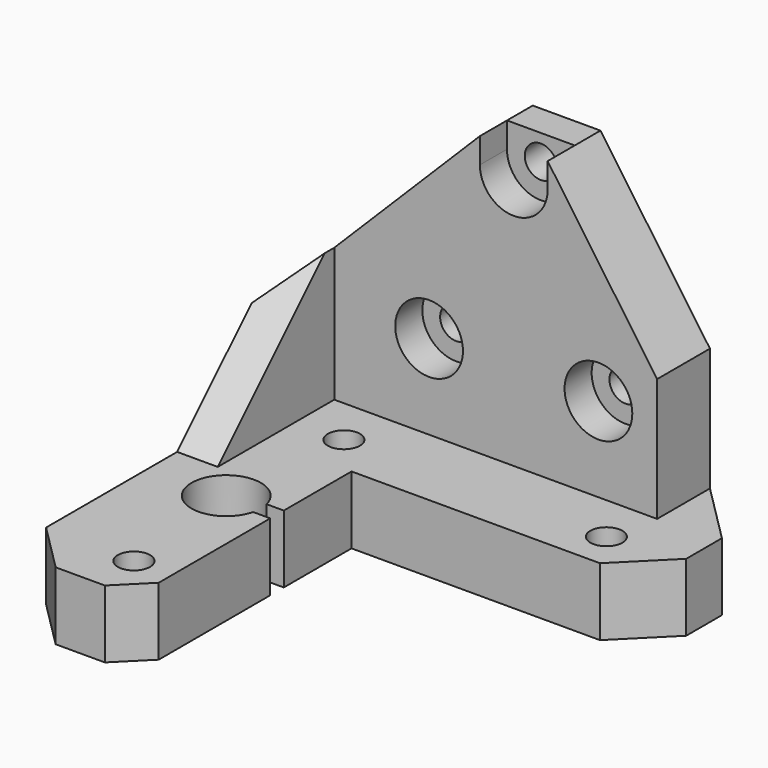
from build123d import *

# Parameters (mm, degrees)
SKETCH_R        = 1.9
SKETCH_R_2      = 4.1
PAD_DEPTH       = 8
PAD001_DEPTH    = 33
SKETCH002_R     = 1.9
POCKET_DEPTH    = 7.801
POCKET001_DEPTH = 5
POCKET002_DEPTH = 50.001
CHAMFER_SIZE    = 3
SKETCH005_R     = 4
POCKET003_DEPTH = 4
SKETCH006_W     = 2.5
SKETCH006_H     = 2
POCKET004_DEPTH = 8.001


with BuildPart() as part:
    # Sketch → Pad (new body)
    with BuildSketch(Plane.XY.offset(10)):
        Polygon((0, 50), (0, 5.656854), (5.656854, 0), (11.464466, 0), (15, 3.535534), (15, 32), (44.343146, 32), (50, 37.656854), (50, 42.928932), (42.928932, 50), align=None)
        with Locations((41.5, 36.5)):
            Circle(SKETCH_R, mode=Mode.SUBTRACT)
        with Locations((10.5, 36.5)):
            Circle(SKETCH_R, mode=Mode.SUBTRACT)
        with Locations((10.5, 5.5)):
            Circle(SKETCH_R, mode=Mode.SUBTRACT)
        with Locations((9, 21)):
            Circle(SKETCH_R_2, mode=Mode.SUBTRACT)
    extrude(amount=PAD_DEPTH)

    # Sketch001 → Pad001 (new body)
    with BuildSketch(Plane.XY.offset(18)):
        Polygon((42.928932, 50), (0, 50), (0, 25), (4.8, 25), (4.8, 42.2), (42.928932, 42.2), align=None)
    extrude(amount=PAD001_DEPTH)

    # Sketch002 → Pocket (cut, through all)
    with BuildSketch(Plane(origin=(0, 42.2, 10), x_dir=(1, 0, 0), z_dir=(0, -1, 0))):
        with Locations((26, 38)):
            Circle(SKETCH002_R)
        with Locations((16, 18)):
            Circle(SKETCH002_R)
        with Locations((36, 18)):
            Circle(SKETCH002_R)
    extrude(amount=-POCKET_DEPTH, mode=Mode.SUBTRACT)

    # Sketch003 → Pocket001 (cut)
    with BuildSketch(Plane(origin=(4.8, 0, 10), x_dir=(0, 1, 0), z_dir=(1, 0, 0))):
        Polygon((25, 8), (42.2, 25.2), (42.2, 41), (25, 41), align=None)
    extrude(amount=-POCKET001_DEPTH, mode=Mode.SUBTRACT)

    # Sketch004 → Pocket002 (cut, through all)
    with BuildSketch(Plane(origin=(0, 50, 10), x_dir=(-1, 0, 0), z_dir=(0, 1, 0))):
        Polygon((-42.928932, 22.535571), (-30, 41), (-42.928932, 41), align=None)
        Polygon((-22, 41), (0, 19), (0, 41), align=None)
    extrude(amount=-POCKET002_DEPTH, mode=Mode.SUBTRACT)

    # Chamfer
    chamfer_edges = [part.edges().sort_by_distance(p)[0] for p in [
        (0, 50, 23.5),
    ]]
    chamfer(chamfer_edges, length=CHAMFER_SIZE)

    # Sketch005 → Pocket003 (cut)
    with BuildSketch(Plane(origin=(0, 42.2, 10), x_dir=(1, 0, 0), z_dir=(0, -1, 0))):
        with Locations((16, 18)):
            Circle(SKETCH005_R)
        with Locations((36, 18)):
            Circle(SKETCH005_R)
        with BuildLine():
            ThreePointArc((22, 37.999999), (26, 34), (30, 37.999999))
            Line((30, 37.999999), (30, 41))
            Line((22, 41), (30, 41))
            Line((22, 37.999999), (22, 41))
        make_face()
    extrude(amount=-POCKET003_DEPTH, mode=Mode.SUBTRACT)

    # Sketch006 → Pocket004 (cut, through all)
    with BuildSketch(Plane.XY.offset(18)):
        with Locations((13.75, 21)):
            Rectangle(SKETCH006_W, SKETCH006_H)
    extrude(amount=-POCKET004_DEPTH, mode=Mode.SUBTRACT)


solid = part.part
